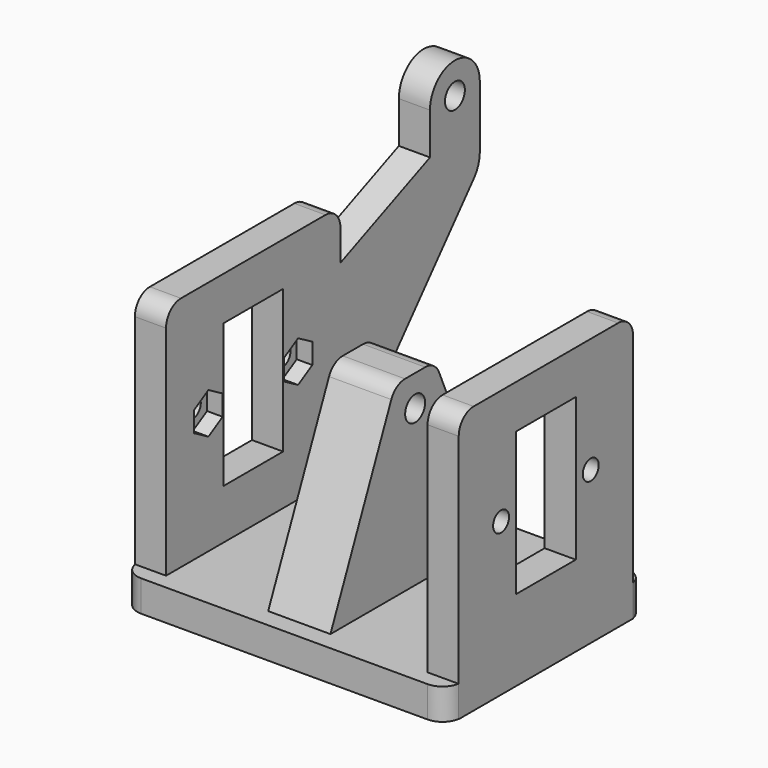
from build123d import *

# Parameters (mm, degrees)
F1_DEPTH      = 5
F2_R          = 1.65
F3_DEPTH      = 3.5
F5_DEPTH      = 5
F5_DEPTH_BACK = 5
F6_R          = 1.6
F6_W          = 12
F6_H          = 23
F7_DEPTH      = 5
F9_DEPTH      = 2.5
F13_ANGLE     = 180
F14_R         = 2
F15_DEPTH     = 25
F17_DEPTH     = 5
F18_R         = 2
F19_DEPTH     = 5.001
F20_R         = 2
F21_DEPTH     = 5.001
F23_DEPTH     = 2


with BuildPart() as f1:
    # F0 (on Top) → F1 (new body)
    with BuildSketch(Plane.XY):
        with BuildLine():
            Line((23, 20), (-23, 20))
            ThreePointArc((-23, 20), (-25.1213203436, 19.1213203436), (-26, 17))
            Line((-26, 17), (-26, -17))
            ThreePointArc((-26, -17), (-25.1213203436, -19.1213203436), (-23, -20))
            Line((-23, -20), (23, -20))
            ThreePointArc((23, -20), (25.1213203436, -19.1213203436), (26, -17))
            Line((26, -17), (26, 17))
            ThreePointArc((26, 17), (25.1213203436, 19.1213203436), (23, 20))
        make_face()
    extrude(amount=F1_DEPTH)

    # F2 (on face) → F3 (cut)
    with BuildSketch(Plane(origin=(0, 0, 0), x_dir=(1, 0, 0), z_dir=(0, 0, -1))):
        Circle(F2_R)
    extrude(amount=-F3_DEPTH, mode=Mode.SUBTRACT)

    # F4 (on Right) → F5 (join, two sides)
    with BuildSketch(Plane.YZ) as f5_sk:
        with BuildLine():
            Line((0, 5), (17, 5))
            Line((17, 5), (4.7831103311, 33.1928223129))
            ThreePointArc((4.7831103311, 33.1928223129), (3.6768840191, 34.5078344182), (2.0304434551, 35))
            Line((2.0304434551, 35), (0, 35))
            Line((0, 35), (0, 5))
        make_face()
        with BuildLine():
            Line((-17, 5), (0, 5))
            Line((0, 5), (0, 35))
            Line((0, 35), (-2.0304434551, 35))
            ThreePointArc((-2.0304434551, 35), (-3.6768840191, 34.5078344182), (-4.7831103311, 33.1928223129))
            Line((-4.7831103311, 33.1928223129), (-17, 5))
        make_face()
    extrude(amount=F5_DEPTH)
    extrude(f5_sk.sketch, amount=-F5_DEPTH_BACK)

    # F6 (on face) → F7 (join)
    with BuildSketch(Plane.YZ.offset(26)):
        with BuildLine():
            Line((17, 0), (17.5, 0))
            Line((17.5, 0), (17.5, 40))
            ThreePointArc((17.5, 40), (16.6213203436, 42.1213203436), (14.5, 43))
            Line((14.5, 43), (-14.5, 43))
            ThreePointArc((-14.5, 43), (-16.6213203436, 42.1213203436), (-17.5, 40))
            Line((-17.5, 40), (-17.5, 0))
            Line((-17.5, 0), (-17, 0))
            Line((-17, 0), (-17, 5))
            Line((-17, 5), (17, 5))
            Line((17, 5), (17, 0))
        make_face()
        with Locations((-9, 24.5)):
            Circle(F6_R, mode=Mode.SUBTRACT)
        with Locations((0, 24.5)):
            Rectangle(F6_W, F6_H, mode=Mode.SUBTRACT)
        with Locations((9, 24.5)):
            Circle(F6_R, mode=Mode.SUBTRACT)
    extrude(amount=-F7_DEPTH)

    # F8 (on face) → F9 (cut)
    with BuildSketch(Plane(origin=(21, 0, 0), x_dir=(0, -1, 0), z_dir=(-1, 0, 0))):
        Polygon((11.8578838325, 26.15), (9, 27.8), (6.1421161675, 26.15), (6.1421161675, 22.85), (9, 21.2), (11.8578838325, 22.85), align=None)
        Polygon((-11.8578838325, 22.85), (-9, 21.2), (-6.1421161675, 22.85), (-6.1421161675, 26.15), (-9, 27.8), (-11.8578838325, 26.15), align=None)
    extrude(amount=-F9_DEPTH, mode=Mode.SUBTRACT)


with BuildPart() as f10_1:
    # F10: copy of F1
    add(f1.part.moved(Location((-47, 0, 0))))


with BuildPart() as f10_1_1:
    # F13: moved
    add(f10_1.part.rotate(Axis((-23.5, 0, 21.4526057243), (0, 0, 1)), F13_ANGLE))


with BuildPart() as f15_tool:
    # F14 (on face) → F15 (new body)
    with BuildSketch(Plane(origin=(-5, 0, 0), x_dir=(0, -1, 0), z_dir=(-1, 0, 0))):
        with Locations((0, 30)):
            Circle(F14_R)
    extrude(amount=-F15_DEPTH)


with BuildPart() as f1_1:
    add(f1.part)

    # F15: cut by f15_tool
    add(f15_tool.part, mode=Mode.SUBTRACT)



with BuildPart() as f10_1_2:
    add(f10_1_1.part)

    # F15: cut by f15_tool
    add(f15_tool.part, mode=Mode.SUBTRACT)


with BuildPart() as f1_2:
    add(f1_1.part)

    add(f10_1_2.part)  # F17 merges F10_1
    # F16 (on face) → F17 (join)
    with BuildSketch(Plane.YZ.offset(-21)):
        with BuildLine():
            Line((17.5, 35), (17.5, 5))
            Line((17.5, 5), (44.2666971773, 36.0169755285))
            ThreePointArc((44.2666971773, 36.0169755285), (45.1678468921, 37.5410467887), (45.4813332936, 39.2836282906))
            Line((45.4813332936, 39.2836282906), (45.4813332936, 49.2836282906))
            ThreePointArc((45.4813332936, 49.2836282906), (40.4813332936, 54.2836282906), (35.4813332936, 49.2836282906))
            Line((35.4813332936, 49.2836282906), (35.4813332936, 42.5987942024))
            Line((35.4813332936, 42.5987942024), (17.5, 35))
        make_face()
    extrude(amount=-F17_DEPTH)

    # F18 (on face) → F19 (cut, through all)
    with BuildSketch(Plane.YZ.offset(-21)):
        with Locations((40.4813332936, 49.2836282906)):
            Circle(F18_R)
    extrude(amount=-F19_DEPTH, mode=Mode.SUBTRACT)

    # F20 (on face) → F21 (cut, through all)
    with BuildSketch(Plane.XY.offset(5)):
        with Locations((-12.5, 0)):
            Circle(F20_R)
        with Locations((12.5, 0)):
            Circle(F20_R)
    extrude(amount=-F21_DEPTH, mode=Mode.SUBTRACT)

    # F22 (on face) → F23 (cut)
    with BuildSketch(Plane(origin=(-5, 0, 0), x_dir=(0, -1, 0), z_dir=(-1, 0, 0))):
        Polygon((-5.0637767885, 25), (-12.4304434551, 8), (12.4304434551, 8), (5.0637767885, 25), align=None)
    extrude(amount=-F23_DEPTH, mode=Mode.SUBTRACT)


solid = f1_2.part
